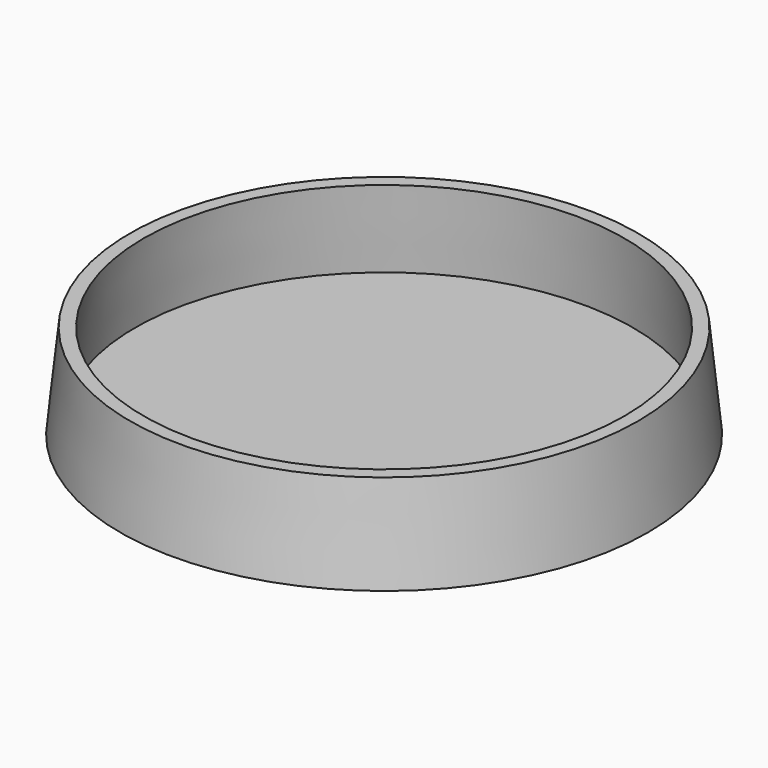
from build123d import *

# Parameters (mm, degrees)
F8_R      = 48.6875
F9_DEPTH  = 17.5
F9_TAPER  = 5.9131224442
F10_T     = -2.5
F11_R     = 45.9151983952
F12_DEPTH = 2.5
F13_DEPTH = 2.5


with BuildPart() as f9:
    # F8 (on Top) → F9 (new body)
    with BuildSketch(Plane.XY):
        Circle(F8_R)
    extrude(amount=F9_DEPTH, taper=F9_TAPER)

    # F10
    f10_openings = [f9.faces().sort_by_distance(p)[0] for p in [
        (0, 0, 17.5),
    ]]
    offset(amount=F10_T, openings=f10_openings)

    # F11 (on face) → F12 (cut, through all)
    with BuildSketch(Plane.XY.offset(2.5)):
        Circle(F11_R)
    extrude(amount=-F12_DEPTH, mode=Mode.SUBTRACT)


with BuildPart() as f13:
    # F11 (on face) → F13 (new body, through all)
    with BuildSketch(Plane.XY.offset(2.5)):
        Circle(F11_R)
    extrude(amount=-F13_DEPTH)


solid = Compound([f9.part, f13.part])
